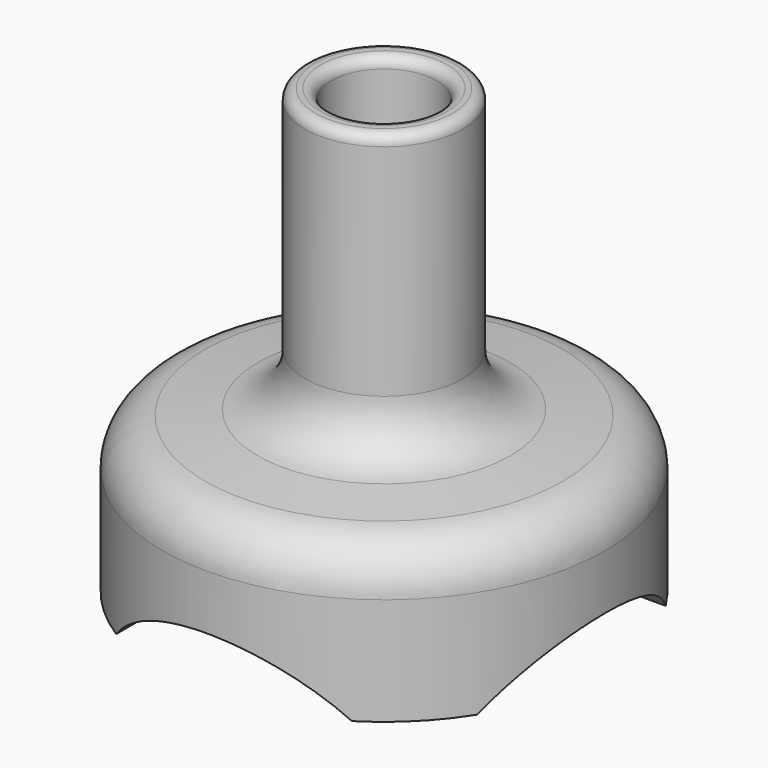
from build123d import *

# Parameters (mm, degrees)
F2_R     = 19.05
F3_DEPTH = 38.1
F4_R     = 19.05
F5_DEPTH = 38.1


with BuildPart() as f1:
    # F0 (on Front) → F1 (revolve)
    with BuildSketch(Plane.XZ):
        with BuildLine():
            ThreePointArc((7.62, 53.34), (6.721974, 52.968026), (6.35, 52.07))
            Line((6.35, 52.07), (6.35, 25.605565))
            ThreePointArc((6.35, 25.605565), (8.801233, 19.226893), (14.893296, 16.13129))
            Line((14.893296, 16.13129), (21.216788, 15.476063))
            ThreePointArc((21.216788, 15.476063), (22.841338, 14.650569), (23.495, 12.94959))
            Line((23.495, 12.94959), (23.495, 0))
            Line((23.495, 0), (26.67, 0))
            Line((26.67, 0), (26.67, 12.94959))
            ThreePointArc((26.67, 12.94959), (25.19926, 16.776793), (21.544022, 18.634155))
            Line((21.544022, 18.634155), (15.220531, 19.289381))
            ThreePointArc((15.220531, 19.289381), (11.159155, 21.353117), (9.525, 25.605565))
            Line((9.525, 25.605565), (9.525, 52.07))
            ThreePointArc((9.525, 52.07), (9.153026, 52.968026), (8.255, 53.34))
            Line((8.255, 53.34), (7.62, 53.34))
        make_face()
    revolve(axis=Axis((0, 0, 26.67), (0, 0, 1)))

    # F2 (on Front) → F3 (cut, symmetric)
    with BuildSketch(Plane.XZ):
        with Locations((0, -12.7)):
            Circle(F2_R)
    extrude(amount=F3_DEPTH, both=True, mode=Mode.SUBTRACT)

    # F4 (on Right) → F5 (cut, symmetric)
    with BuildSketch(Plane.YZ):
        with Locations((0, -12.7)):
            Circle(F4_R)
    extrude(amount=F5_DEPTH, both=True, mode=Mode.SUBTRACT)


solid = f1.part
